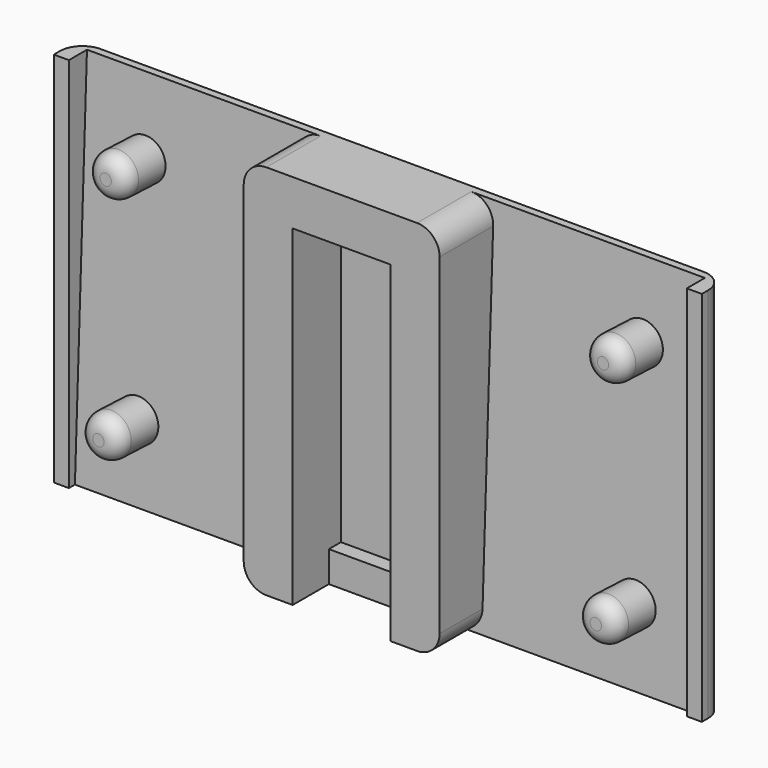
from build123d import *

# Parameters (mm, degrees)
F0_W      = 86
F0_H      = 50
F1_DEPTH  = 1
F2_W      = 26
F2_H      = 50
F3_DEPTH  = 9
F4_W      = 13
F4_H      = 47
F5_DEPTH  = 8
F6_W      = 13
F6_H      = 4.0918802842
F7_DEPTH  = 2
F8_W      = 13
F8_H      = 1.7
F9_DEPTH  = 3
F11_DEPTH = 28
F13_DEPTH = 28
F14_W     = 2
F14_H     = 50
F15_DEPTH = 3
F16_R     = 3
F17_R     = 2.75
F18_DEPTH = 6.5
F19_R     = 2
F20_R     = 3


with BuildPart() as f1:
    # F0 (on Front) → F1 (new body)
    with BuildSketch(Plane.XZ):
        with Locations((-42.2739830759, 34.3034887686)):
            Rectangle(F0_W, F0_H)
    extrude(amount=F1_DEPTH)

    # F2 (on face) → F3 (join)
    with BuildSketch(Plane.XZ.offset(1)):
        with Locations((-42.2739830759, 34.3034887686)):
            Rectangle(F2_W, F2_H)
    extrude(amount=F3_DEPTH)

    # F4 (on face) → F5 (cut)
    with BuildSketch(Plane.XZ.offset(10)):
        with Locations((-42.2739830759, 32.8034887686)):
            Rectangle(F4_W, F4_H)
    extrude(amount=-F5_DEPTH, mode=Mode.SUBTRACT)

    # F6 (on face) → F7 (join)
    with BuildSketch(Plane.XZ.offset(2)):
        with Locations((-42.2739830759, 11.3494289108)):
            Rectangle(F6_W, F6_H)
    extrude(amount=F7_DEPTH)

    # F8 (on face) → F9 (join)
    with BuildSketch(Plane(origin=(0, 0, 56.3034887686), x_dir=(1, 0, 0), z_dir=(0, 0, -1))):
        with Locations((-42.2739830759, 9.15)):
            Rectangle(F8_W, F8_H)
    extrude(amount=F9_DEPTH)

    # F10 (on face) → F11 (join)
    with BuildSketch(Plane(origin=(-55.2739830759, 0, 0), x_dir=(0, -1, 0), z_dir=(-1, 0, 0))):
        Polygon((3, 9.3034887686), (1, 59.3034887686), (1, 9.3034887686), align=None)
    extrude(amount=F11_DEPTH)

    # F12 (on face) → F13 (join)
    with BuildSketch(Plane.YZ.offset(-29.2739830759)):
        Polygon((-1, 9.3034887686), (-1, 59.3034887686), (-3, 9.3034887686), align=None)
    extrude(amount=F13_DEPTH)

    # F14 (on face) → F15 (join)
    with BuildSketch(Plane.XZ.offset(1)):
        with Locations((-0.2739830759, 34.3034887686)):
            Rectangle(F14_W, F14_H)
        with Locations((-84.2739830759, 34.3034887686)):
            Rectangle(F14_W, F14_H)
    extrude(amount=F15_DEPTH)

    # F16
    f16_edges = [f1.edges().sort_by_distance(p)[0] for p in [
        (-85.273983, 0, 34.303489),
        (0.726017, 0, 34.303489),
    ]]
    fillet(f16_edges, radius=F16_R)

    # F17 (on face) → F18 (join)
    with BuildSketch(Plane(origin=(0, -3.3667527464, 0.1346701099), x_dir=(1, 0, 0), z_dir=(0, -0.9992009587, 0.0399680383))):
        with Locations((-9.2739830759, 49.176150782)):
            Circle(F17_R)
        with Locations((-9.2739830759, 19.176150782)):
            Circle(F17_R)
        with Locations((-75.2739830759, 49.176150782)):
            Circle(F17_R)
        with Locations((-75.2739830759, 19.176150782)):
            Circle(F17_R)
    extrude(amount=F18_DEPTH)

    # F19
    f19_edges = [f1.edges().sort_by_distance(p)[0] for p in [
        (-78.023983, -7.896085, 49.531319),
        (-78.023983, -9.095126, 19.555291),
        (-12.023983, -7.896085, 49.531319),
        (-12.023983, -9.095126, 19.555291),
    ]]
    fillet(f19_edges, radius=F19_R)

    # F20
    f20_edges = [f1.edges().sort_by_distance(p)[0] for p in [
        (-29.273983, -5.5, 59.303489),
        (-55.273983, -5.5, 59.303489),
        (-29.273983, -6.5, 9.303489),
        (-55.273983, -6.5, 9.303489),
    ]]
    fillet(f20_edges, radius=F20_R)


solid = f1.part
